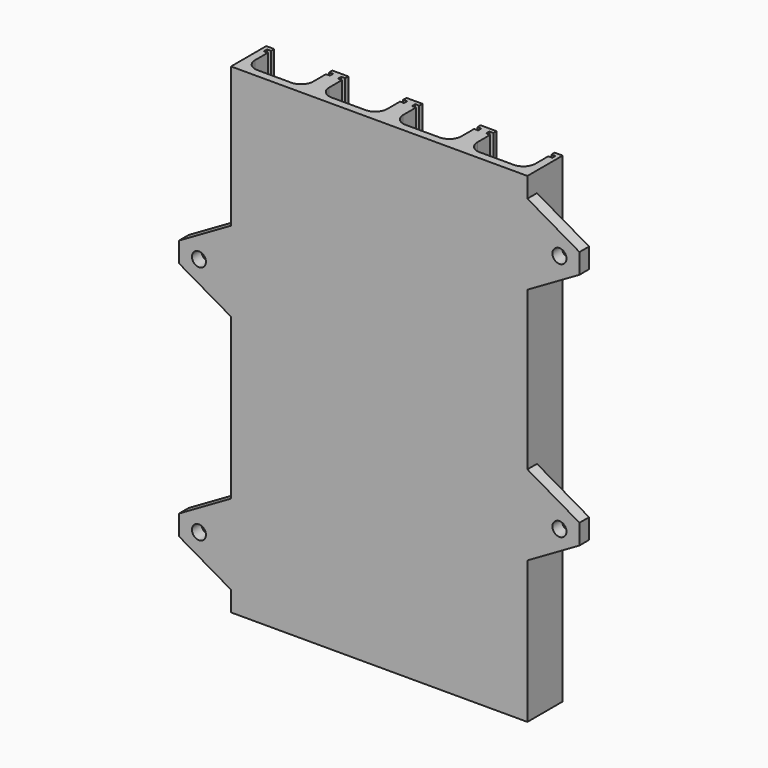
from build123d import *

# Parameters (mm, degrees)
PAD_DEPTH    = 120
SKETCH001_R  = 1.75
PAD001_DEPTH = 3
FILLET_R     = 3


with BuildPart() as part:
    # Sketch → Pad (new body)
    with BuildSketch(Plane.XY):
        Polygon((0, 0), (74, 0), (74, 11), (72, 11), (72, 10), (73, 10), (73, 9), (72, 9), (72, 2), (57.5, 2), (57.5, 9), (56.5, 9), (56.5, 10), (57.5, 10), (57.5, 11), (53.5, 11), (53.5, 10), (54.5, 10), (54.5, 9), (53.5, 9), (53.5, 2), (39, 2), (39, 9), (38, 9), (38, 10), (39, 10), (39, 11), (35, 11), (35, 10), (36, 10), (36, 9), (35, 9), (35, 2), (20.5, 2), (20.5, 9), (19.5, 9), (19.5, 10), (20.5, 10), (20.5, 11), (16.5, 11), (16.5, 10), (17.5, 10), (17.5, 9), (16.5, 9), (16.5, 2), (2, 2), (2, 9), (1, 9), (1, 10), (2, 10), (2, 11), (0, 11), align=None)
    extrude(amount=PAD_DEPTH)

    # Sketch001 → Pad001 (join)
    with BuildSketch(Plane.XZ):
        Polygon((0, 4.994447), (-13, 12.5), (-13, 17.5), (0, 25.005553), align=None)
        with Locations((-8, 15)):
            Circle(SKETCH001_R, mode=Mode.SUBTRACT)
        Polygon((0, 65.005553), (-13, 72.5), (-13, 77.5), (0, 84.994447), align=None)
        with Locations((-8, 75)):
            Circle(SKETCH001_R, mode=Mode.SUBTRACT)
        Polygon((74, 35.494447), (87, 43), (87, 48), (74, 55.505553), align=None)
        with Locations((82, 45)):
            Circle(SKETCH001_R, mode=Mode.SUBTRACT)
        Polygon((74, 94.994447), (87, 102.5), (87, 107.5), (74, 115.005553), align=None)
        with Locations((82, 105)):
            Circle(SKETCH001_R, mode=Mode.SUBTRACT)
    extrude(amount=-PAD001_DEPTH)

    # Fillet
    fillet_edges = [part.edges().sort_by_distance(p)[0] for p in [
        (39, 2, 60),
        (57.5, 2, 60),
        (72, 2, 60),
        (53.5, 2, 60),
        (2, 2, 60),
        (20.5, 2, 60),
        (16.5, 2, 60),
        (35, 2, 60),
    ]]
    fillet(fillet_edges, radius=FILLET_R)


solid = part.part
